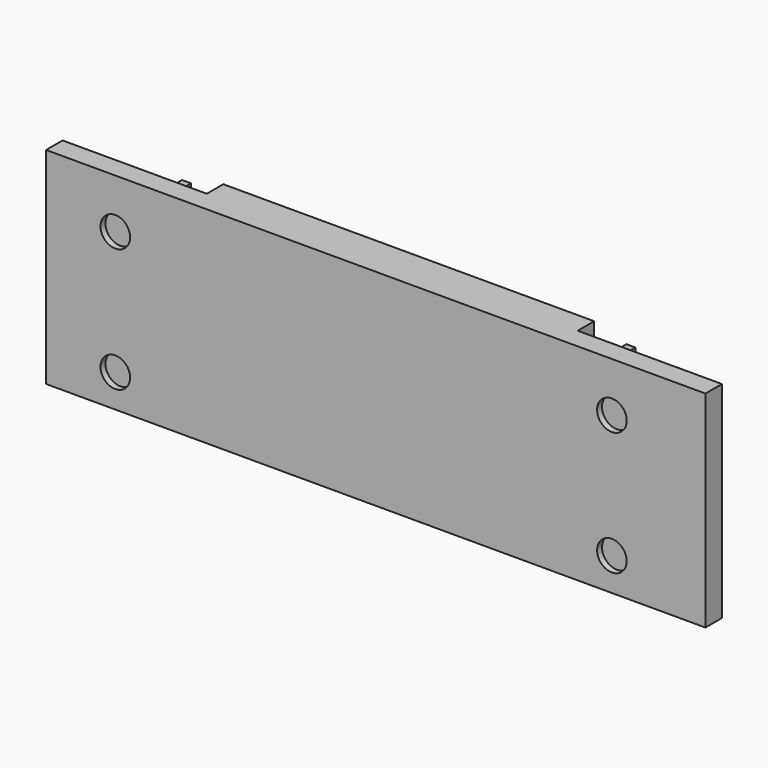
from build123d import *

# Parameters (mm, degrees)
F1_DEPTH = 12.7
F2_R     = 4.564063
F3_DEPTH = 1.905
F4_W     = 31.75
F4_H     = 63.5
F5_DEPTH = 6.35
F6_W     = 2.7686
F6_H     = 6.35
F7_DEPTH = 2.9972
F8_DEPTH = 38.1


with BuildPart() as f1:
    # F0 (on Front) → F1 (new body)
    with BuildSketch(Plane.XZ):
        Polygon((104.14, 40.870185), (2.54, 40.870185), (-99.06, 40.870185), (-99.06, -22.629815), (2.54, -22.629815), (104.14, -22.629815), align=None)
    extrude(amount=F1_DEPTH)

    # F2 (on face) → F3 (cut)
    with BuildSketch(Plane.XZ.offset(12.7)):
        with Locations((-77.724032, -12.498807)):
            Circle(F2_R)
        with Locations((75.310968, -12.498807)):
            Circle(F2_R)
        with Locations((75.310968, 25.601193)):
            Circle(F2_R)
        with Locations((-77.724032, 25.601193)):
            Circle(F2_R)
    extrude(amount=-F3_DEPTH, mode=Mode.SUBTRACT)

    # F4 (on face) → F5 (cut)
    with BuildSketch(Plane(origin=(0, 0, 0), x_dir=(-1, 0, 0), z_dir=(0, 1, 0))):
        with Locations((-88.265, 9.120185)):
            Rectangle(F4_W, F4_H)
        with Locations((83.185, 9.120185)):
            Rectangle(F4_W, F4_H)
    extrude(amount=-F5_DEPTH, mode=Mode.SUBTRACT)

    # F6 (on face) → F7 (cut)
    with BuildSketch(Plane.XY.offset(40.870185)):
        with Locations((-65.9257, -3.175)):
            Rectangle(F6_W, F6_H)
        Polygon((-64.5414, 0), (-64.5414, -6.35), (-57.3786, -6.35), (-54.61, -6.35), (-54.61, 0), (-57.3786, 0), align=None)
        with Locations((71.0057, -3.175)):
            Rectangle(F6_W, F6_H)
        Polygon((62.4586, -6.35), (69.6214, -6.35), (69.6214, 0), (62.4586, 0), (59.69, 0), (59.69, -6.35), align=None)
    extrude(amount=-F7_DEPTH, mode=Mode.SUBTRACT)

    # F6 (on face) → F8 (cut)
    with BuildSketch(Plane.XY.offset(40.870185)):
        Polygon((-64.5414, 0), (-64.5414, -6.35), (-57.3786, -6.35), (-54.61, -6.35), (-54.61, 0), (-57.3786, 0), align=None)
        Polygon((62.4586, 0), (59.69, 0), (59.69, -6.35), (62.4586, -6.35), (69.6214, -6.35), (69.6214, 0), align=None)
    extrude(amount=-F8_DEPTH, mode=Mode.SUBTRACT)


solid = f1.part
